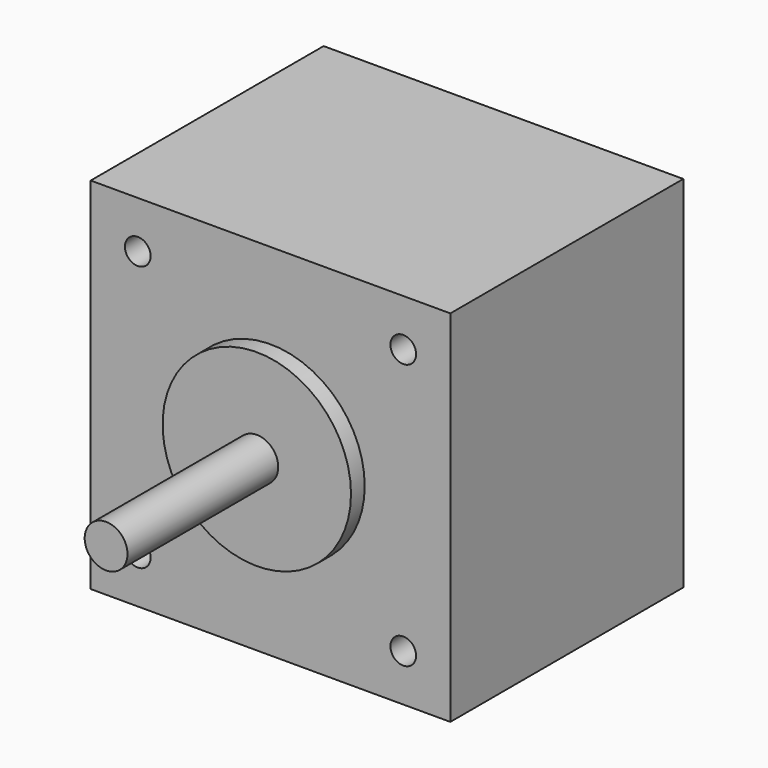
from build123d import *

# Parameters (mm, degrees)
F0_W     = 42
F0_H     = 42
F0_R     = 1.5
F0_R_2   = 11
F0_R_3   = 2.5
F1_DEPTH = 34
F2_DEPTH = 24
F3_DEPTH = 2


with BuildPart() as f1:
    # F0 (on Front) → F1 (new body)
    with BuildSketch(Plane.XZ):
        with Locations((-21, 21)):
            Rectangle(F0_W, F0_H)
        with Locations((-36.5, 5.5)):
            Circle(F0_R, mode=Mode.SUBTRACT)
        with Locations((-5.5, 5.5)):
            Circle(F0_R, mode=Mode.SUBTRACT)
        with Locations((-36.5, 36.5)):
            Circle(F0_R, mode=Mode.SUBTRACT)
        with Locations((-21, 21)):
            Circle(F0_R_2, mode=Mode.SUBTRACT)
        with Locations((-5.5, 36.5)):
            Circle(F0_R, mode=Mode.SUBTRACT)
        with Locations((-21, 21)):
            Circle(F0_R_2)
        with Locations((-21, 21)):
            Circle(F0_R_3, mode=Mode.SUBTRACT)
        with Locations((-21, 21)):
            Circle(F0_R_3)
    extrude(amount=-F1_DEPTH)

    # F0 (on Front) → F2 (join)
    with BuildSketch(Plane.XZ):
        with Locations((-21, 21)):
            Circle(F0_R_3)
    extrude(amount=F2_DEPTH)

    # F0 (on Front) → F3 (join)
    with BuildSketch(Plane.XZ):
        with Locations((-21, 21)):
            Circle(F0_R_2)
        with Locations((-21, 21)):
            Circle(F0_R_3, mode=Mode.SUBTRACT)
    extrude(amount=F3_DEPTH)


solid = f1.part
